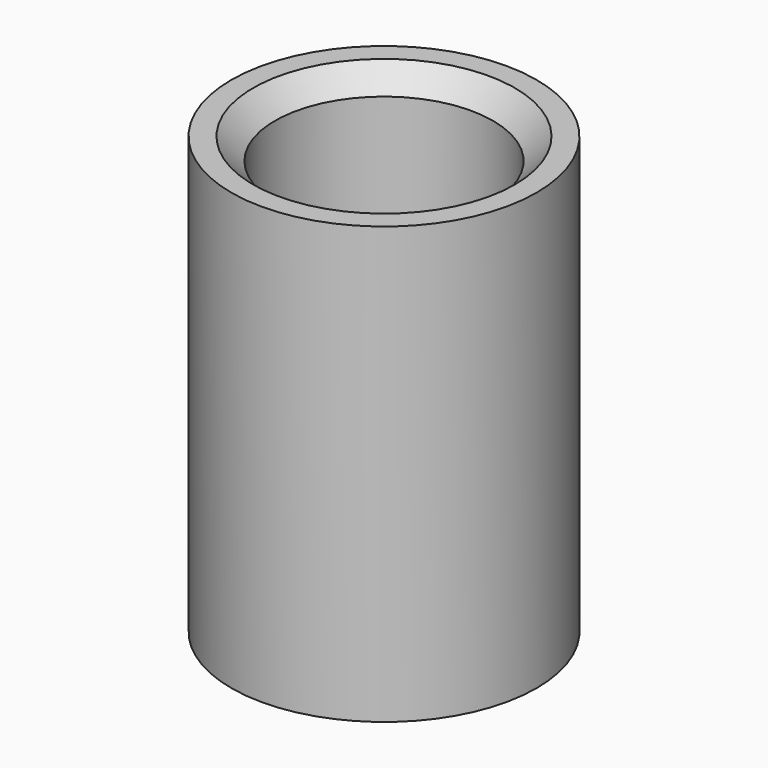
from build123d import *

# Parameters (mm, degrees)
SKETCH_R        = 7
SKETCH_R_2      = 5
PAD_DEPTH       = 20
CHAMFER_SIZE    = 1
CHAMFER001_SIZE = 1


with BuildPart() as part:
    # Sketch → Pad (new body)
    with BuildSketch(Plane.XY):
        Circle(SKETCH_R)
        Circle(SKETCH_R_2, mode=Mode.SUBTRACT)
    extrude(amount=PAD_DEPTH)

    # Chamfer
    chamfer_edges = [part.edges().sort_by_distance(p)[0] for p in [
        (-5, 0, 20),
    ]]
    chamfer(chamfer_edges, length=CHAMFER_SIZE)

    # Chamfer001
    chamfer001_edges = [part.edges().sort_by_distance(p)[0] for p in [
        (-5, 0, 0),
    ]]
    chamfer(chamfer001_edges, length=CHAMFER001_SIZE)


solid = part.part
